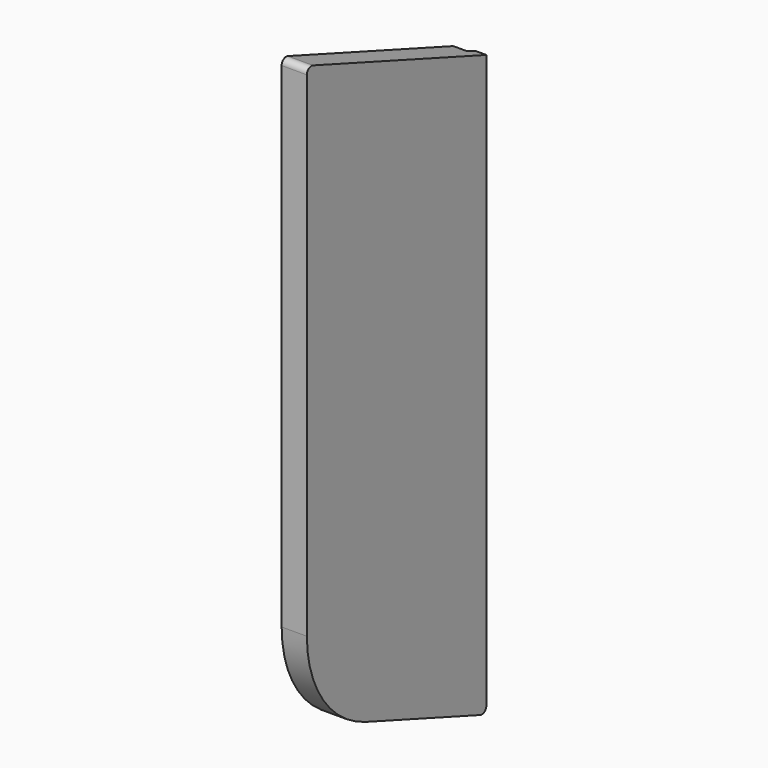
from build123d import *

# Parameters (mm, degrees)
F1_DEPTH = 9
F2_R     = 6.5
F3_DEPTH = 5
F5_DEPTH = 5
F6_R     = 2
F8_DEPTH = 5


with BuildPart() as f1:
    # F0 (on Right) → F1 (new body)
    with BuildSketch(Plane.YZ):
        with BuildLine():
            Line((0, -207.12592), (0, 0))
            Line((0, 0), (-80, 29.117619))
            Line((-80, 29.117619), (-80, -150))
            ThreePointArc((-80, -150), (-72.766082, -172.943057), (-53.680806, -187.587705))
            Line((-53.680806, -187.587705), (0, -207.12592))
        make_face()
    extrude(amount=F1_DEPTH)

    # F2 (on face) → F3 (cut)
    with BuildSketch(Plane(origin=(0, 0, 0), x_dir=(0, -1, 0), z_dir=(-1, 0, 0))):
        with Locations((40, -150)):
            Circle(F2_R)
    extrude(amount=-F3_DEPTH, mode=Mode.SUBTRACT)

    # F4 (on face) → F5 (cut)
    with BuildSketch(Plane(origin=(0, 0, 0), x_dir=(0, -1, 0), z_dir=(-1, 0, 0))):
        Polygon((75, -57.836454), (5, -83.314371), (5, -88.635259), (75, -63.157343), align=None)
    extrude(amount=-F5_DEPTH, mode=Mode.SUBTRACT)

    # F6
    f6_edges = [f1.edges().sort_by_distance(p)[0] for p in [
        (4.5, 0, -207.12592),
        (4.5, -80, 29.117619),
    ]]
    fillet(f6_edges, radius=F6_R)

    # F7 (on face) → F8 (cut)
    with BuildSketch(Plane(origin=(0, 0, 0), x_dir=(0, -1, 0), z_dir=(-1, 0, 0))):
        Polygon((3.5, -80), (3.5, 1.273896), (0, 0), (0, -80), align=None)
    extrude(amount=-F8_DEPTH, mode=Mode.SUBTRACT)


solid = f1.part
